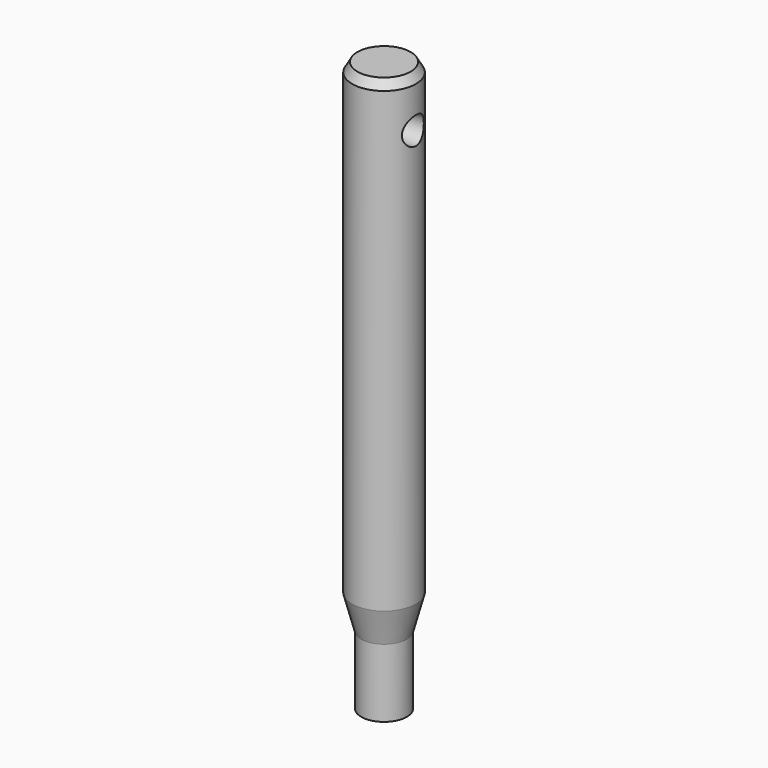
from build123d import *

# Parameters (mm, degrees)
F0_R          = 7
F1_DEPTH      = 62.5
F2_R          = 3
F3_DEPTH      = 7.001
F3_DEPTH_BACK = 7.001
F6_SIZE2      = 1.1547005384
F6_SIZE       = 2


with BuildPart() as f1:
    # F0 (on Top) → F1 (new body, symmetric)
    with BuildSketch(Plane.XY):
        Circle(F0_R)
    extrude(amount=F1_DEPTH, both=True)

    # F2 (on Right) → F3 (cut, two sides)
    with BuildSketch(Plane.YZ) as f3_sk:
        with Locations((0, 51.5)):
            Circle(F2_R)
    extrude(amount=-F3_DEPTH, mode=Mode.SUBTRACT)
    extrude(f3_sk.sketch, amount=F3_DEPTH_BACK, mode=Mode.SUBTRACT)

    # F4 (on Right) → F5 (revolve, cut)
    with BuildSketch(Plane.YZ):
        Polygon((-5, -47.5), (-7, -40.0358983849), (-7, -62.5), (-5, -62.5), align=None)
    revolve(axis=Axis((0, 0, -51.2679491924), (0, 0, 1)), mode=Mode.SUBTRACT)

    # F6
    f6_edges = [f1.edges().sort_by_distance(p)[0] for p in [
        (-7, 0, 62.5),
    ]]
    f6_side = f1.faces().sort_by_distance((-7, 0, 11.232051))[0]
    chamfer(f6_edges, length=F6_SIZE, length2=F6_SIZE2, reference=f6_side)


solid = f1.part
